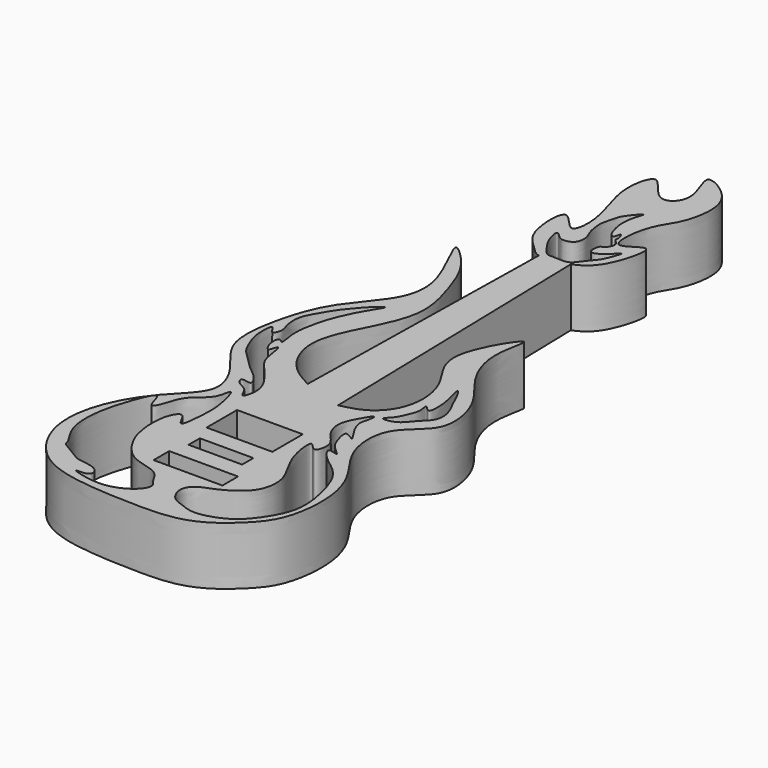
from build123d import *

# Parameters (mm, degrees)
F0_W     = 11.8421022727
F0_H     = 3.3582047127
F0_W_2   = 9.2206853129
F0_H_2   = 2.4271969222
F0_W_3   = 11.3118568957
F0_H_3   = 6.5396687418
F1_DEPTH = 10


with BuildPart() as f1:
    # F0 (on Top) → F1 (new body)
    with BuildSketch(Plane.XY):
        with BuildLine():
            Line((-3.3471642808, -12.8396819925), (-3.3471642808, -3.1185547101))
            add(Edge.make_bspline(
                [(-3.3471642808, -3.1185547101), (-4.903901096, -2.2902866601), (-8.2927629851, -0.4864711446), (-11.6513903053, 7.0677121152), (-6.6608494765, 15.7571787988), (-3.6790743008, 23.2073270029), (-6.1805498258, 31.1740174685), (-8.1906541158, 36.716323439), (-14.9203324328, 43.0686476376), (-7.8311592558, 31.5538938349), (-8.6973809348, 24.0380303378), (-15.3622352034, 17.5536164592), (-18.2766397892, 9.3543979702), (-19.6536205912, -0.4305448998), (-14.0697520783, -5.6637125734), (-10.9268523131, -12.3591305071), (-16.9374891859, -17.3751336476), (-21.8538306696, -24.947486117), (-23.0410719714, -34.394881808), (-17.4251215547, -42.8894882883), (-8.3950460899, -44.7166221453), (-0.1120469015, -45.0630050854), (9.0541988201, -45.0859678992), (15.4213017868, -40.0109763505), (19.2539076112, -35.2914505835), (19.9717916262, -25.5319492992), (17.0489727644, -19.457836996), (12.9145238682, -14.510813779), (12.7043316821, -6.0435506423), (20.0007119526, -2.5084091492), (18.0648005428, 6.7389390497), (13.0101036716, 11.5442710118), (10.1683995789, 18.9082107223), (13.3343326185, 28.2171927291), (4.4233839404, 14.5669975841), (11.42867076, 8.5292946876), (11.9278154745, -0.2142790535), (7.7700603411, -4.5685223702), (4.9155394147, -5.127290974), (3.7227451188, -5.4162765297)],
                knots=[0, 0, 0, 0, 0.0229585842, 0.0494792802, 0.0800979203, 0.1079155331, 0.1354247943, 0.1613141449, 0.1826490829, 0.2119326009, 0.2397360785, 0.2687535267, 0.2982009865, 0.3279552592, 0.3547193068, 0.3791978786, 0.4049840116, 0.4348044416, 0.4644896876, 0.4943798073, 0.5235319054, 0.552296069, 0.5817350946, 0.6090353113, 0.6331782983, 0.6631514142, 0.6886336906, 0.7134830575, 0.7400743616, 0.7657560257, 0.7933750972, 0.8196980275, 0.8481032881, 0.8697292126, 0.9007606855, 0.9296715453, 0.9573448386, 0.9803820232, 1, 1, 1, 1], degree=3))
            Line((3.7227451188, -5.4162765297), (3.7227451188, -12.8396819925))
            Line((3.7227451188, -12.8396819925), (-3.3471642808, -12.8396819925))
        make_face()
        with BuildLine():
            add(Edge.make_bspline(
                [(-1.8913435756, -38.1757591162), (-2.2880289809, -37.606626001), (-3.1256098808, -35.3624031419), (-8.4107884147, -35.1811407675), (-11.4340745602, -30.7882249185), (-12.2583256873, -28.331337937), (-12.7685843166, -24.8130078905), (-12.2184090444, -21.4909715801), (-10.6634411788, -20.014009505), (-9.1923022949, -24.4975757119), (-8.6442425956, -18.3823769202), (-8.6369549403, -15.2941263066), (-10.1353525482, -9.816958158), (-10.351304521, -14.439346867), (-14.1788734004, -15.9266368498), (-14.9203497512, -20.458236708), (-16.1906791957, -21.5097275797), (-16.8333478652, -16.7122108899), (-19.0955027013, -22.1577377061), (-20.5520428423, -27.2994979216), (-20.4420273266, -33.1400225797), (-17.8002633513, -36.308552516), (-18.0997804573, -37.1370331078), (-14.9224417767, -38.7313567706), (-13.852463201, -39.6723886226), (-9.9699332221, -39.7200175639), (-9.3441491067, -42.3662705355), (-13.5568826818, -41.8897707959), (-7.8859564532, -43.5789069131), (-3.988903033, -42.7484851444), (-1.3323610374, -40.7036983338), (-1.0449083411, -38.9906998028), (-1.6318237677, -38.5480977873), (-1.8913435756, -38.1757591162)],
                knots=[0, 0, 0, 0, 0.0303677172, 0.0717339787, 0.1136232633, 0.144103955, 0.1794095084, 0.2144290149, 0.2351442601, 0.264129108, 0.3000009463, 0.340093357, 0.3747976989, 0.4039326785, 0.4419310747, 0.4812044789, 0.4974507382, 0.5280993132, 0.562992395, 0.6100073772, 0.6552849103, 0.6910419801, 0.7059755348, 0.7393491946, 0.764160354, 0.7993093963, 0.822452033, 0.8488669615, 0.8843299335, 0.9249292226, 0.9579869232, 0.9801328105, 1, 1, 1, 1], degree=3))
        make_face(mode=Mode.SUBTRACT)
        with BuildLine():
            add(Edge.make_bspline(
                [(-8.0719721649, -11.21113677), (-7.7968915827, -11.2362164167), (-7.0830433666, -8.7883455063), (-8.3025361808, -5.9841373952), (-10.797680657, -3.2263138688), (-12.4992647832, -1.1357202701), (-12.6404713867, 1.6756904806), (-13.2335424931, 3.3032773655), (-13.5866598075, 0.6106314163), (-14.9170306998, 3.0164399012), (-14.6276098457, 5.1571837126), (-13.3467339052, 3.6619017255), (-14.1385740309, 6.8156075089), (-13.8495503648, 9.7803113332), (-12.8817160105, 13.6131068435), (-11.5535030293, 16.5002494852), (-10.5965505033, 18.3373451114), (-8.3718975934, 21.6831241942), (-10.923733446, 19.5540986786), (-12.4114958096, 17.7031656965), (-13.7684364847, 16.1643350933), (-15.1655601843, 13.6939648571), (-16.6009505735, 11.2632644835), (-16.2703417813, 8.3267133766), (-15.564829165, 6.9637858042), (-16.4562086574, 4.9753839541), (-17.6470953753, 8.054570022), (-17.851128122, 4.0144129971), (-17.2035533456, 2.0068193835), (-16.1012115148, -0.7747225837), (-14.1364258403, -2.330841491), (-12.2165425585, -4.5492910281), (-10.5269037861, -5.5269342631), (-8.6907545933, -8.2771084327), (-11.7031036337, -7.0413789111), (-10.611803892, -9.0075240754), (-8.7658043525, -9.2541343121), (-8.3202078974, -11.1885046219), (-8.0719721649, -11.21113677)],
                knots=[0, 0, 0, 0, 0.0272020021, 0.0612208612, 0.0970987274, 0.1277411858, 0.1600069336, 0.177210935, 0.1985286412, 0.2236268362, 0.2473273242, 0.2634086778, 0.2906028414, 0.3253509775, 0.3624827443, 0.3952418913, 0.4248344384, 0.4545166912, 0.479935876, 0.5108724797, 0.5373929218, 0.5687642371, 0.6003706981, 0.6315171834, 0.6555686796, 0.6759963033, 0.698708543, 0.7279223466, 0.758226314, 0.7894217174, 0.8192945931, 0.8506402291, 0.8791981939, 0.9052969132, 0.9286969361, 0.9488751656, 0.9754526152, 1, 1, 1, 1], degree=3))
        make_face(mode=Mode.SUBTRACT)
        with Locations((0.249618876, -31.6633250846)):
            Rectangle(F0_W, F0_H, mode=Mode.SUBTRACT)
        with Locations((-0.1773491384, -25.7186377129)):
            Rectangle(F0_W_2, F0_H_2, mode=Mode.SUBTRACT)
        with Locations((-0.368999244, -18.2304938846)):
            Rectangle(F0_W_3, F0_H_3, mode=Mode.SUBTRACT)
        with BuildLine():
            add(Edge.make_bspline(
                [(8.0136509476, -41.8011138395), (9.2146275298, -41.8413674331), (11.7677100492, -41.0720890367), (14.0023708248, -39.7515977435), (15.9934280312, -37.5317876207), (18.8776737372, -32.8289163441), (18.0413336603, -26.8256975262), (16.4445191853, -21.9487234581), (13.9689691823, -19.6781274525), (11.6784597774, -18.1348953921), (10.292955633, -15.8058720851), (13.378350134, -17.1576336404), (10.6842578645, -15.132381769), (10.1136113818, -13.7748864188), (9.0339634176, -10.2302035799), (12.1006315538, -12.7143409905), (9.6909698621, -9.6373377386), (9.0650457263, -7.5035357643), (9.5222333927, -6.4535098703), (9.8644450441, -3.9972355614), (7.8244195355, -7.4664638532), (6.8779221215, -9.9152370324), (8.0667720944, -12.9444086997), (10.4160855152, -14.6614221125), (9.4888464285, -18.5239613784), (7.4529217073, -15.0613278878), (7.8896308568, -20.0604767233), (9.518232998, -23.4117025225), (11.6881655686, -26.9420069912), (11.1803137866, -31.134780787), (8.6860260269, -33.4138648039), (5.8986474452, -34.9602692731), (3.434644858, -35.6476055855), (2.0758598595, -37.6763751274), (3.2998510062, -40.412876191), (5.3350770043, -41.0646704494), (6.9787009707, -41.7664250235), (8.0136509476, -41.8011138395)],
                knots=[0, 0, 0, 0, 0.0336349756, 0.0612630477, 0.0906400103, 0.1303266849, 0.1727791618, 0.2115879866, 0.2425428089, 0.2728629412, 0.2938893873, 0.3146907036, 0.3380855724, 0.3639167273, 0.3896550407, 0.4112798106, 0.4376172767, 0.4647153752, 0.4840989235, 0.5037838795, 0.5319676002, 0.561763817, 0.5912545771, 0.6209225783, 0.6471101735, 0.6693726928, 0.6995337324, 0.7357493525, 0.7701981431, 0.8041053411, 0.8352880298, 0.8661572846, 0.8934462404, 0.9184270538, 0.946222276, 0.9710148244, 1, 1, 1, 1], degree=3))
        make_face(mode=Mode.SUBTRACT)
        with BuildLine():
            add(Edge.make_bspline(
                [(10.8350715789, -4.6300719492), (10.9608063995, -4.8542538119), (13.3460986249, -4.606781794), (14.7081161786, -2.2838075509), (16.6185972869, -0.8622304661), (17.0175716771, 1.4654202348), (15.8852322801, 3.9120764407), (15.6342496014, 4.1746375419), (14.859943263, 6.2163117472), (13.1406808678, 8.9264648211), (14.4159771018, 4.7485280249), (14.5799469711, 2.8784981348), (14.4697471315, 0.1934733631), (12.7929478385, 2.464675982), (13.5104846617, 0.1522866619), (12.723064814, -1.4212270963), (12.0286925416, -3.4782805439), (10.7302146512, -4.443114818), (10.8350715789, -4.6300719492)],
                knots=[0, 0, 0, 0, 0.0643591149, 0.1405133063, 0.2082729845, 0.2767202884, 0.3480869086, 0.3756604483, 0.4449604423, 0.5061550113, 0.581364771, 0.6553791242, 0.7116353548, 0.7623422352, 0.8140285026, 0.8772000429, 0.9463275247, 1, 1, 1, 1], degree=3))
        make_face(mode=Mode.SUBTRACT)
        with BuildLine():
            Line((-2.4467098298, 45.4602402497), (-3.3471642808, -3.1185547101))
            Line((-3.3471642808, -3.1185547101), (-3.3471642808, -12.8396819925))
            Line((-3.3471642808, -12.8396819925), (3.7227451188, -12.8396819925))
            Line((3.7227451188, -12.8396819925), (3.7227451188, -5.4162765297))
            Line((3.7227451188, -5.4162765297), (2.5035862925, 46.1576643308))
            add(Edge.make_bspline(
                [(-2.4467098298, 45.4602402497), (-1.1681387895, 45.1011510024), (0.8887821158, 45.5108045034), (2.5035862925, 46.1576643308)],
                knots=[0.9488344444, 0.9488344444, 0.9488344444, 0.9488344444, 1, 1, 1, 1], degree=3))
        make_face()
        with BuildLine():
            add(Edge.make_bspline(
                [(2.5035862925, 46.1576643308), (4.1780771354, 46.8284335009), (6.6728326466, 48.7546756108), (9.0851899114, 58.5827467342), (2.7555577108, 52.1856557306), (3.5628449709, 61.3607234164), (6.2858643953, 64.3879913874), (7.688503687, 69.3799811376), (6.9648944733, 74.7051005581), (-0.6876162509, 78.9446799426), (4.3280861535, 71.0798463347), (-0.3707906639, 66.8480352569), (-4.2224538165, 74.9599848804), (-6.0158500791, 68.0710770329), (-4.1471013907, 62.5061837591), (-2.7943249382, 57.6035936861), (-3.6466806823, 52.7201723399), (-8.0413461086, 59.9510819702), (-7.8987386977, 49.7931748715), (-4.5759982782, 47.2686837951), (-3.377812657, 45.7217423508), (-2.4467098298, 45.4602402497)],
                knots=[0, 0, 0, 0, 0.0530567456, 0.1103870018, 0.1540689821, 0.2093481698, 0.2591836084, 0.3091053504, 0.3629474799, 0.4132100044, 0.4682724144, 0.5121721508, 0.5656007241, 0.6112073557, 0.6694693888, 0.7235297472, 0.7606237414, 0.8057719757, 0.8627002382, 0.9115737901, 0.9488344444, 0.9488344444, 0.9488344444, 0.9488344444], degree=3))
            add(Edge.make_bspline(
                [(-2.4467098298, 45.4602402497), (-1.1681387895, 45.1011510024), (0.8887821158, 45.5108045034), (2.5035862925, 46.1576643308)],
                knots=[0.9488344444, 0.9488344444, 0.9488344444, 0.9488344444, 1, 1, 1, 1], degree=3))
        make_face()
        with BuildLine():
            add(Edge.make_bspline(
                [(1.8487228999, 46.4418966974), (2.4703062743, 46.6971239092), (3.2280493896, 48.0308935465), (4.8071168014, 49.6288357842), (5.4002746867, 51.1209474093), (6.2479877, 53.5102579709), (4.8087285504, 51.7243637701), (3.6524368308, 50.9289391692), (2.6508156777, 50.4023008), (1.8350882642, 51.1636661835), (2.3715272133, 52.9133221358), (2.7361020203, 52.495978462), (3.7373260878, 53.8767084964), (3.5578298887, 54.85538334), (2.5717344843, 55.4166600139), (2.9256149255, 55.9185406711), (2.2224145574, 57.8773889238), (2.18901788, 55.8685699152), (1.2269518283, 56.2293480968), (0.7351988602, 57.7994175226), (0.3364720849, 59.4878835741), (0.5543948594, 61.6106341091), (0.9266625508, 62.8863931205), (1.3641187741, 64.157357405), (-0.8302580239, 61.5392198299), (-1.1690797955, 60.4449077801), (-1.8207361173, 58.06461945), (-1.673341237, 56.8683087415), (-1.4859044682, 55.1713697286), (-0.5603253743, 53.6533615306), (-0.7624819162, 51.6664990013), (-2.0067548391, 51.009280589), (-3.3374763695, 51.0071347324), (-4.0956266861, 51.8976858674), (-4.9418118164, 52.4767390321), (-4.4372036229, 50.1746923481), (-3.6230419656, 48.6799544741), (-2.3597655994, 46.9613054677), (-1.6046663492, 46.2632355976), (-0.3606868536, 46.4671994962), (1.206459271, 46.1781780041), (1.8487228999, 46.4418966974)],
                knots=[0, 0, 0, 0, 0.0317691669, 0.0643189403, 0.0943851697, 0.1215834603, 0.1470383711, 0.1754578515, 0.1968377358, 0.2174120431, 0.244063287, 0.2544192188, 0.280785144, 0.3024490417, 0.3231921147, 0.339767128, 0.3639616936, 0.3862641728, 0.4030521088, 0.4308423405, 0.4604581256, 0.4922275218, 0.5190704922, 0.5353804611, 0.5700941678, 0.5973936999, 0.6304858823, 0.6550963188, 0.6830241644, 0.7125016771, 0.7416925265, 0.7663454952, 0.7906263195, 0.8147151992, 0.8305917083, 0.8594340227, 0.8907155111, 0.9222634324, 0.9432382738, 0.9671738639, 1, 1, 1, 1], degree=3))
        make_face(mode=Mode.SUBTRACT)
    extrude(amount=F1_DEPTH)


solid = f1.part
